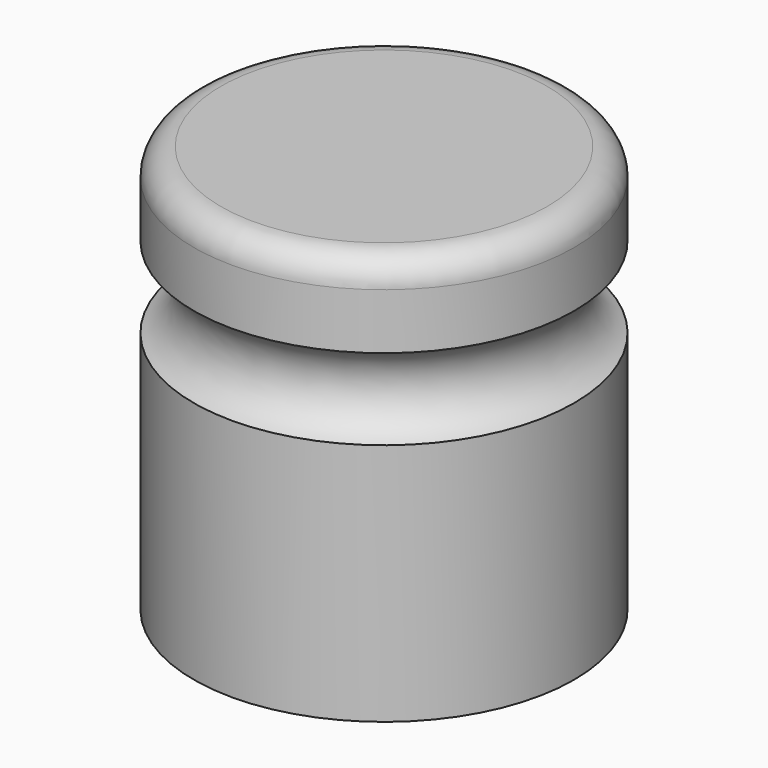
from build123d import *

# Parameters (mm, degrees)
F2_R = 1


with BuildPart() as f1:
    # F0 (on Front) → F1 (revolve)
    with BuildSketch(Plane.XZ):
        with BuildLine():
            Line((0, 15), (0, 0))
            Line((0, 0), (7, 0))
            Line((7, 0), (7, 8.962449))
            ThreePointArc((7, 8.962449), (5.978577, 10.454176), (7, 11.945902))
            Line((7, 11.945902), (7, 15))
            Line((7, 15), (0, 15))
        make_face()
    revolve(axis=Axis((0, 0, 7.5), (0, 0, -1)))

    # F2
    f2_edges = [f1.edges().sort_by_distance(p)[0] for p in [
        (-7, 0, 15),
    ]]
    fillet(f2_edges, radius=F2_R)


solid = f1.part
